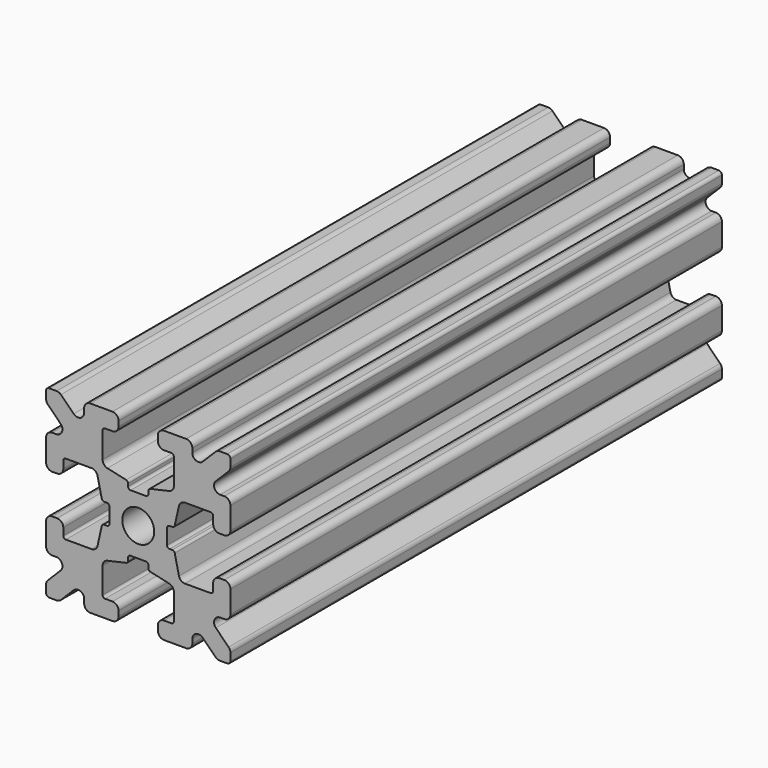
from build123d import *

# Parameters (mm, degrees)
F0_R     = 1.3
F1_DEPTH = 25


with BuildPart() as f1:
    # F0 (on Front) → F1 (new body, symmetric)
    with BuildSketch(Plane.XZ):
        with BuildLine():
            ThreePointArc((0.6255, -2.347065), (0.766921, -2.405643), (0.8255, -2.547065))
            Line((0.8255, -2.547065), (0.8255, -2.774891))
            ThreePointArc((0.8255, -2.774891), (0.869378, -2.899894), (0.981758, -2.970049))
            Line((0.981758, -2.970049), (2.509356, -3.312442))
            ThreePointArc((2.509356, -3.312442), (2.790306, -3.487829), (2.9, -3.800337))
            Line((2.9, -3.800337), (2.9, -5.9))
            ThreePointArc((2.9, -5.9), (2.841421, -6.041421), (2.7, -6.1))
            Line((2.7, -6.1), (2.1, -6.1))
            ThreePointArc((2.1, -6.1), (1.746447, -6.246447), (1.6, -6.6))
            Line((1.6, -6.6), (1.6, -7))
            ThreePointArc((1.6, -7), (1.746447, -7.353553), (2.1, -7.5))
            Line((2.1, -7.5), (3.9, -7.5))
            ThreePointArc((3.9, -7.5), (4.253553, -7.353553), (4.4, -7))
            Line((4.4, -7), (4.4, -6.667767))
            ThreePointArc((4.4, -6.667767), (4.708658, -6.205827), (5.253553, -6.314214))
            Line((5.253553, -6.314214), (6.292893, -7.353553))
            ThreePointArc((6.292893, -7.353553), (6.455105, -7.46194), (6.646447, -7.5))
            Line((6.646447, -7.5), (7.25, -7.5))
            ThreePointArc((7.25, -7.5), (7.426777, -7.426777), (7.5, -7.25))
            Line((7.5, -7.25), (7.5, -6.646447))
            ThreePointArc((7.5, -6.646447), (7.46194, -6.455105), (7.353553, -6.292893))
            Line((7.353553, -6.292893), (6.314214, -5.253553))
            ThreePointArc((6.314214, -5.253553), (6.205827, -4.708658), (6.667767, -4.4))
            Line((6.667767, -4.4), (7, -4.4))
            ThreePointArc((7, -4.4), (7.353553, -4.253553), (7.5, -3.9))
            Line((7.5, -3.9), (7.5, -2.1))
            ThreePointArc((7.5, -2.1), (7.353553, -1.746447), (7, -1.6))
            Line((7, -1.6), (6.6, -1.6))
            ThreePointArc((6.6, -1.6), (6.246447, -1.746447), (6.1, -2.1))
            Line((6.1, -2.1), (6.1, -2.7))
            ThreePointArc((6.1, -2.7), (6.041421, -2.841421), (5.9, -2.9))
            Line((5.9, -2.9), (3.800337, -2.9))
            ThreePointArc((3.800337, -2.9), (3.487829, -2.790306), (3.312442, -2.509356))
            Line((3.312442, -2.509356), (2.970049, -0.981758))
            ThreePointArc((2.970049, -0.981758), (2.899894, -0.869378), (2.774891, -0.8255))
            Line((2.774891, -0.8255), (2.547065, -0.8255))
            ThreePointArc((2.547065, -0.8255), (2.405643, -0.766921), (2.347065, -0.6255))
            Line((2.347065, -0.6255), (2.347065, 0.6255))
            ThreePointArc((2.347065, 0.6255), (2.405643, 0.766921), (2.547065, 0.8255))
            Line((2.547065, 0.8255), (2.774891, 0.8255))
            ThreePointArc((2.774891, 0.8255), (2.899894, 0.869378), (2.970049, 0.981758))
            Line((2.970049, 0.981758), (3.312442, 2.509356))
            ThreePointArc((3.312442, 2.509356), (3.487829, 2.790306), (3.800337, 2.9))
            Line((3.800337, 2.9), (5.9, 2.9))
            ThreePointArc((5.9, 2.9), (6.041421, 2.841421), (6.1, 2.7))
            Line((6.1, 2.7), (6.1, 2.1))
            ThreePointArc((6.1, 2.1), (6.246447, 1.746447), (6.6, 1.6))
            Line((6.6, 1.6), (7, 1.6))
            ThreePointArc((7, 1.6), (7.353553, 1.746447), (7.5, 2.1))
            Line((7.5, 2.1), (7.5, 3.9))
            ThreePointArc((7.5, 3.9), (7.353553, 4.253553), (7, 4.4))
            Line((7, 4.4), (6.667767, 4.4))
            ThreePointArc((6.667767, 4.4), (6.205827, 4.708658), (6.314214, 5.253553))
            Line((6.314214, 5.253553), (7.353553, 6.292893))
            ThreePointArc((7.353553, 6.292893), (7.46194, 6.455105), (7.5, 6.646447))
            Line((7.5, 6.646447), (7.5, 7.25))
            ThreePointArc((7.5, 7.25), (7.426777, 7.426777), (7.25, 7.5))
            Line((7.25, 7.5), (6.646447, 7.5))
            ThreePointArc((6.646447, 7.5), (6.455105, 7.46194), (6.292893, 7.353553))
            Line((6.292893, 7.353553), (5.253553, 6.314214))
            ThreePointArc((5.253553, 6.314214), (4.708658, 6.205827), (4.4, 6.667767))
            Line((4.4, 6.667767), (4.4, 7))
            ThreePointArc((4.4, 7), (4.253553, 7.353553), (3.9, 7.5))
            Line((3.9, 7.5), (2.1, 7.5))
            ThreePointArc((2.1, 7.5), (1.746447, 7.353553), (1.6, 7))
            Line((1.6, 7), (1.6, 6.6))
            ThreePointArc((1.6, 6.6), (1.746447, 6.246447), (2.1, 6.1))
            Line((2.1, 6.1), (2.7, 6.1))
            ThreePointArc((2.7, 6.1), (2.841421, 6.041421), (2.9, 5.9))
            Line((2.9, 5.9), (2.9, 3.800337))
            ThreePointArc((2.9, 3.800337), (2.790306, 3.487829), (2.509356, 3.312442))
            Line((2.509356, 3.312442), (0.981758, 2.970049))
            ThreePointArc((0.981758, 2.970049), (0.869378, 2.899894), (0.8255, 2.774891))
            Line((0.8255, 2.774891), (0.8255, 2.547065))
            ThreePointArc((0.8255, 2.547065), (0.766921, 2.405643), (0.6255, 2.347065))
            Line((0.6255, 2.347065), (-0.6255, 2.347065))
            ThreePointArc((-0.6255, 2.347065), (-0.766921, 2.405643), (-0.8255, 2.547065))
            Line((-0.8255, 2.547065), (-0.8255, 2.774891))
            ThreePointArc((-0.8255, 2.774891), (-0.869378, 2.899894), (-0.981758, 2.970049))
            Line((-0.981758, 2.970049), (-2.509356, 3.312442))
            ThreePointArc((-2.509356, 3.312442), (-2.790306, 3.487829), (-2.9, 3.800337))
            Line((-2.9, 3.800337), (-2.9, 5.9))
            ThreePointArc((-2.9, 5.9), (-2.841421, 6.041421), (-2.7, 6.1))
            Line((-2.7, 6.1), (-2.1, 6.1))
            ThreePointArc((-2.1, 6.1), (-1.746447, 6.246447), (-1.6, 6.6))
            Line((-1.6, 6.6), (-1.6, 7))
            ThreePointArc((-1.6, 7), (-1.746447, 7.353553), (-2.1, 7.5))
            Line((-2.1, 7.5), (-3.9, 7.5))
            ThreePointArc((-3.9, 7.5), (-4.253553, 7.353553), (-4.4, 7))
            Line((-4.4, 7), (-4.4, 6.667767))
            ThreePointArc((-4.4, 6.667767), (-4.708658, 6.205827), (-5.253553, 6.314214))
            Line((-5.253553, 6.314214), (-6.292893, 7.353553))
            ThreePointArc((-6.292893, 7.353553), (-6.455105, 7.46194), (-6.646447, 7.5))
            Line((-6.646447, 7.5), (-7.25, 7.5))
            ThreePointArc((-7.25, 7.5), (-7.426777, 7.426777), (-7.5, 7.25))
            Line((-7.5, 7.25), (-7.5, 6.646447))
            ThreePointArc((-7.5, 6.646447), (-7.46194, 6.455105), (-7.353553, 6.292893))
            Line((-7.353553, 6.292893), (-6.314214, 5.253553))
            ThreePointArc((-6.314214, 5.253553), (-6.205827, 4.708658), (-6.667767, 4.4))
            Line((-6.667767, 4.4), (-7, 4.4))
            ThreePointArc((-7, 4.4), (-7.353553, 4.253553), (-7.5, 3.9))
            Line((-7.5, 3.9), (-7.5, 2.1))
            ThreePointArc((-7.5, 2.1), (-7.353553, 1.746447), (-7, 1.6))
            Line((-7, 1.6), (-6.6, 1.6))
            ThreePointArc((-6.6, 1.6), (-6.246447, 1.746447), (-6.1, 2.1))
            Line((-6.1, 2.1), (-6.1, 2.7))
            ThreePointArc((-6.1, 2.7), (-6.041421, 2.841421), (-5.9, 2.9))
            Line((-5.9, 2.9), (-3.800337, 2.9))
            ThreePointArc((-3.800337, 2.9), (-3.487829, 2.790306), (-3.312442, 2.509356))
            Line((-3.312442, 2.509356), (-2.970049, 0.981758))
            ThreePointArc((-2.970049, 0.981758), (-2.899894, 0.869378), (-2.774891, 0.8255))
            Line((-2.774891, 0.8255), (-2.547065, 0.8255))
            ThreePointArc((-2.547065, 0.8255), (-2.405643, 0.766921), (-2.347065, 0.6255))
            Line((-2.347065, 0.6255), (-2.347065, -0.6255))
            ThreePointArc((-2.347065, -0.6255), (-2.405643, -0.766921), (-2.547065, -0.8255))
            Line((-2.547065, -0.8255), (-2.774891, -0.8255))
            ThreePointArc((-2.774891, -0.8255), (-2.899894, -0.869378), (-2.970049, -0.981758))
            Line((-2.970049, -0.981758), (-3.312442, -2.509356))
            ThreePointArc((-3.312442, -2.509356), (-3.487829, -2.790306), (-3.800337, -2.9))
            Line((-3.800337, -2.9), (-5.9, -2.9))
            ThreePointArc((-5.9, -2.9), (-6.041421, -2.841421), (-6.1, -2.7))
            Line((-6.1, -2.7), (-6.1, -2.1))
            ThreePointArc((-6.1, -2.1), (-6.246447, -1.746447), (-6.6, -1.6))
            Line((-6.6, -1.6), (-7, -1.6))
            ThreePointArc((-7, -1.6), (-7.353553, -1.746447), (-7.5, -2.1))
            Line((-7.5, -2.1), (-7.5, -3.9))
            ThreePointArc((-7.5, -3.9), (-7.353553, -4.253553), (-7, -4.4))
            Line((-7, -4.4), (-6.667767, -4.4))
            ThreePointArc((-6.667767, -4.4), (-6.205827, -4.708658), (-6.314214, -5.253553))
            Line((-6.314214, -5.253553), (-7.353553, -6.292893))
            ThreePointArc((-7.353553, -6.292893), (-7.46194, -6.455105), (-7.5, -6.646447))
            Line((-7.5, -6.646447), (-7.5, -7.25))
            ThreePointArc((-7.5, -7.25), (-7.426777, -7.426777), (-7.25, -7.5))
            Line((-7.25, -7.5), (-6.646447, -7.5))
            ThreePointArc((-6.646447, -7.5), (-6.455105, -7.46194), (-6.292893, -7.353553))
            Line((-6.292893, -7.353553), (-5.253553, -6.314214))
            ThreePointArc((-5.253553, -6.314214), (-4.708658, -6.205827), (-4.4, -6.667767))
            Line((-4.4, -6.667767), (-4.4, -7))
            ThreePointArc((-4.4, -7), (-4.253553, -7.353553), (-3.9, -7.5))
            Line((-3.9, -7.5), (-2.1, -7.5))
            ThreePointArc((-2.1, -7.5), (-1.746447, -7.353553), (-1.6, -7))
            Line((-1.6, -7), (-1.6, -6.6))
            ThreePointArc((-1.6, -6.6), (-1.746447, -6.246447), (-2.1, -6.1))
            Line((-2.1, -6.1), (-2.7, -6.1))
            ThreePointArc((-2.7, -6.1), (-2.841421, -6.041421), (-2.9, -5.9))
            Line((-2.9, -5.9), (-2.9, -3.800337))
            ThreePointArc((-2.9, -3.800337), (-2.790306, -3.487829), (-2.509356, -3.312442))
            Line((-2.509356, -3.312442), (-0.981758, -2.970049))
            ThreePointArc((-0.981758, -2.970049), (-0.869378, -2.899894), (-0.8255, -2.774891))
            Line((-0.8255, -2.774891), (-0.8255, -2.547065))
            ThreePointArc((-0.8255, -2.547065), (-0.766921, -2.405643), (-0.6255, -2.347065))
            Line((-0.6255, -2.347065), (0.6255, -2.347065))
        make_face()
        Circle(F0_R, mode=Mode.SUBTRACT)
    extrude(amount=F1_DEPTH, both=True)


solid = f1.part
